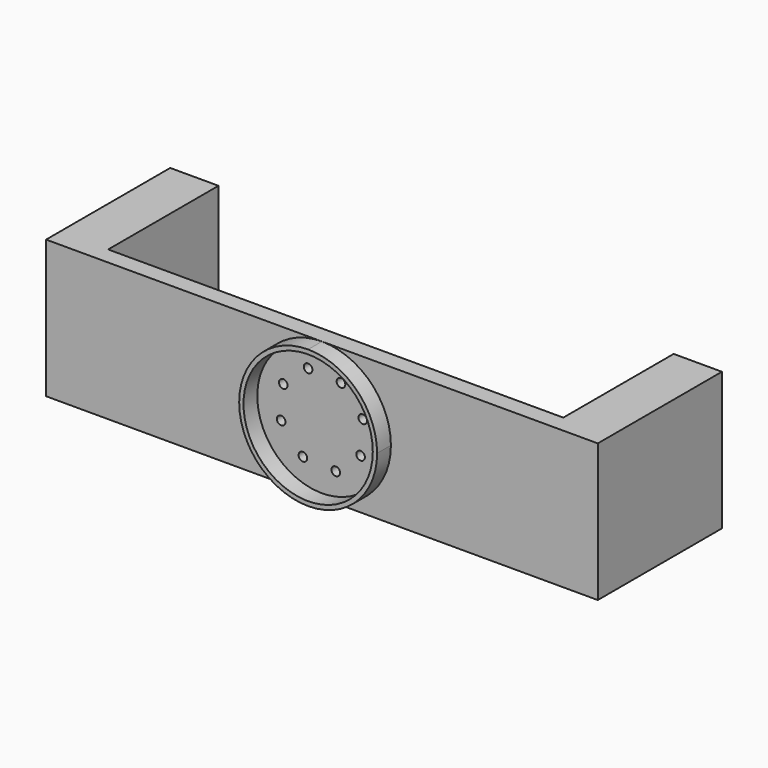
from build123d import *

# Parameters (mm, degrees)
F0_W     = 101.6
F0_H     = 25.4
F1_DEPTH = 3.175
F2_W     = 8.89
F2_H     = 25.4
F3_DEPTH = 25.4
F4_DEPTH = 25.4
F5_R     = 11.90625
F6_DEPTH = 3.175
F7_R     = 0.79375
F8_DEPTH = 25.4


with BuildPart() as f1:
    # F0 (on Front) → F1 (new body)
    with BuildSketch(Plane.XZ):
        with Locations((65.346594, 4.688971)):
            Rectangle(F0_W, F0_H)
    extrude(amount=F1_DEPTH)

    # F2 (on face) → F3 (join)
    with BuildSketch(Plane(origin=(0, 0, 0), x_dir=(-1, 0, 0), z_dir=(0, 1, 0))):
        with Locations((-111.701594, 4.688971)):
            Rectangle(F2_W, F2_H)
    extrude(amount=F3_DEPTH)

    # F2 (on face) → F4 (join)
    with BuildSketch(Plane(origin=(0, 0, 0), x_dir=(-1, 0, 0), z_dir=(0, 1, 0))):
        with Locations((-18.991594, 4.688971)):
            Rectangle(F2_W, F2_H)
    extrude(amount=F4_DEPTH)

    # F5 (on face) → F6 (join)
    with BuildSketch(Plane.XZ.offset(3.175)):
        with BuildLine():
            ThreePointArc((65.346594, -8.011029), (74.32685, -4.291285), (78.046594, 4.688971))
            ThreePointArc((78.046594, 4.688971), (74.32685, 13.669228), (65.346594, 17.388971))
            ThreePointArc((65.346594, 17.388971), (52.646594, 4.688971), (65.346594, -8.011029))
        make_face()
        with Locations((65.346594, 4.688971)):
            Circle(F5_R, mode=Mode.SUBTRACT)
    extrude(amount=F6_DEPTH)

    # F7 (on face) → F8 (cut)
    with BuildSketch(Plane.XZ.offset(3.175)):
        with Locations((58.226489, 8.197249)):
            Circle(F7_R)
        with Locations((62.792646, 12.204373)):
            Circle(F7_R)
        with Locations((68.854871, 11.809077)):
            Circle(F7_R)
        with Locations((72.861995, 7.242919)):
            Circle(F7_R)
        with Locations((72.466699, 1.180694)):
            Circle(F7_R)
        with Locations((67.900542, -2.82643)):
            Circle(F7_R)
        with Locations((61.838316, -2.431134)):
            Circle(F7_R)
        with Locations((57.831193, 2.135024)):
            Circle(F7_R)
    extrude(amount=-F8_DEPTH, mode=Mode.SUBTRACT)


solid = f1.part
